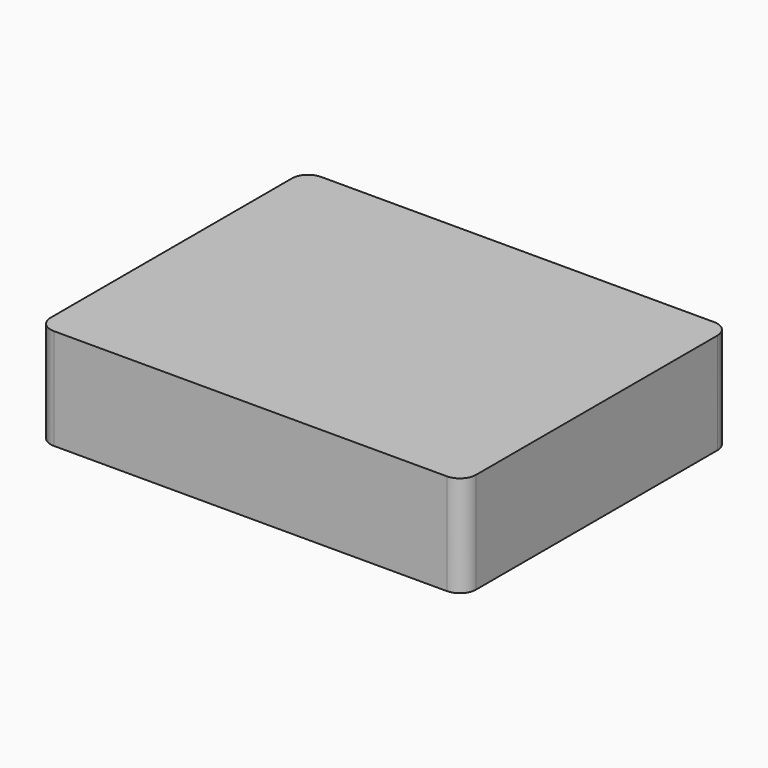
from build123d import *

# Parameters (mm, degrees)
F1_DEPTH = 25


with BuildPart() as f1:
    # F0 (on Top) → F1 (new body)
    with BuildSketch(Plane.XY):
        with BuildLine():
            Line((0, 38.085704), (-48.621949, 38.085704))
            ThreePointArc((-48.621949, 38.085704), (-51.450377, 36.914132), (-52.621949, 34.085704))
            Line((-52.621949, 34.085704), (-52.621949, -40.544019))
            ThreePointArc((-52.621949, -40.544019), (-51.450377, -43.372446), (-48.621949, -44.544019))
            Line((-48.621949, -44.544019), (0, -44.544019))
            Line((0, -44.544019), (0, 38.085704))
        make_face()
        with BuildLine():
            Line((48.621949, 38.085704), (0, 38.085704))
            Line((0, 38.085704), (0, -44.544019))
            Line((0, -44.544019), (48.621949, -44.544019))
            ThreePointArc((48.621949, -44.544019), (51.450377, -43.372446), (52.621949, -40.544019))
            Line((52.621949, -40.544019), (52.621949, 34.085704))
            ThreePointArc((52.621949, 34.085704), (51.450377, 36.914132), (48.621949, 38.085704))
        make_face()
    extrude(amount=F1_DEPTH)


solid = f1.part
